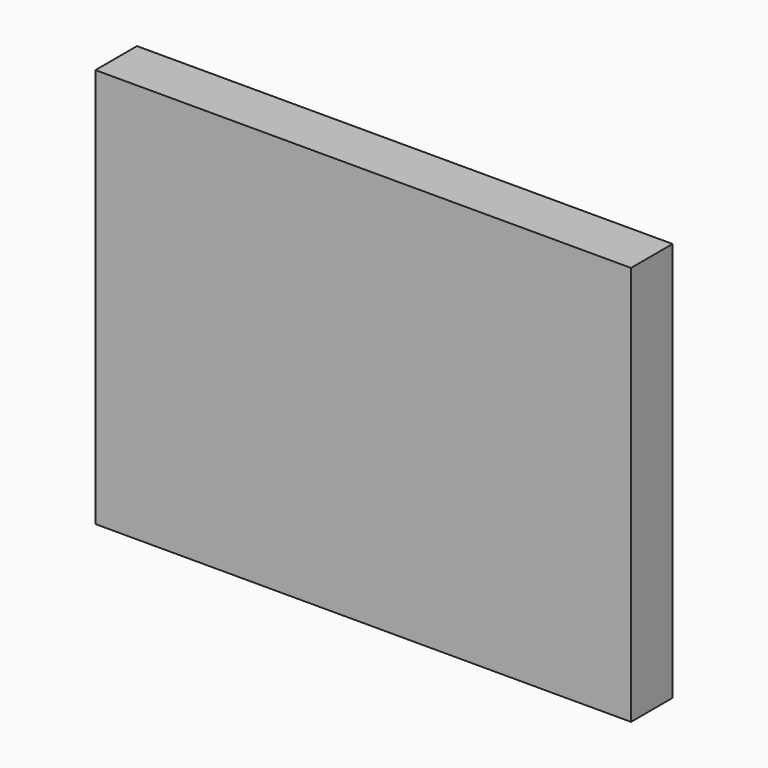
from build123d import *

# Parameters (mm, degrees)
SKETCH_W  = 134
SKETCH_H  = 100
PAD_DEPTH = 13


with BuildPart() as part:
    # Sketch → Pad (new body)
    with BuildSketch(Plane.XZ):
        with Locations((67, 50)):
            Rectangle(SKETCH_W, SKETCH_H)
    extrude(amount=-PAD_DEPTH)


solid = part.part
